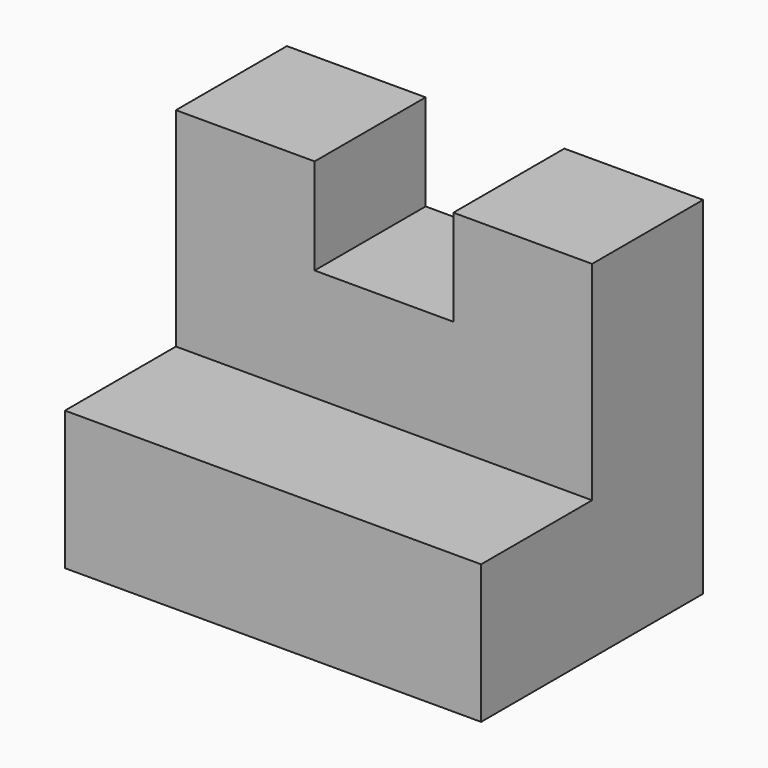
from build123d import *

# Parameters (mm, degrees)
F1_DEPTH = 12.7
F2_W     = 38.1
F2_H     = 12.7
F3_DEPTH = 12.7


with BuildPart() as f1:
    # F0 (on Front) → F1 (new body)
    with BuildSketch(Plane.XZ):
        Polygon((-35.901433, 67.380571), (-48.601433, 67.380571), (-48.601433, 35.630571), (-10.501433, 35.630571), (-10.501433, 67.380571), (-23.201433, 67.380571), (-23.201433, 58.588262), (-35.901433, 58.588262), align=None)
    extrude(amount=F1_DEPTH)

    # F2 (on face) → F3 (join)
    with BuildSketch(Plane.XZ.offset(12.7)):
        with Locations((-29.551433, 41.980571)):
            Rectangle(F2_W, F2_H)
    extrude(amount=F3_DEPTH)


solid = f1.part
